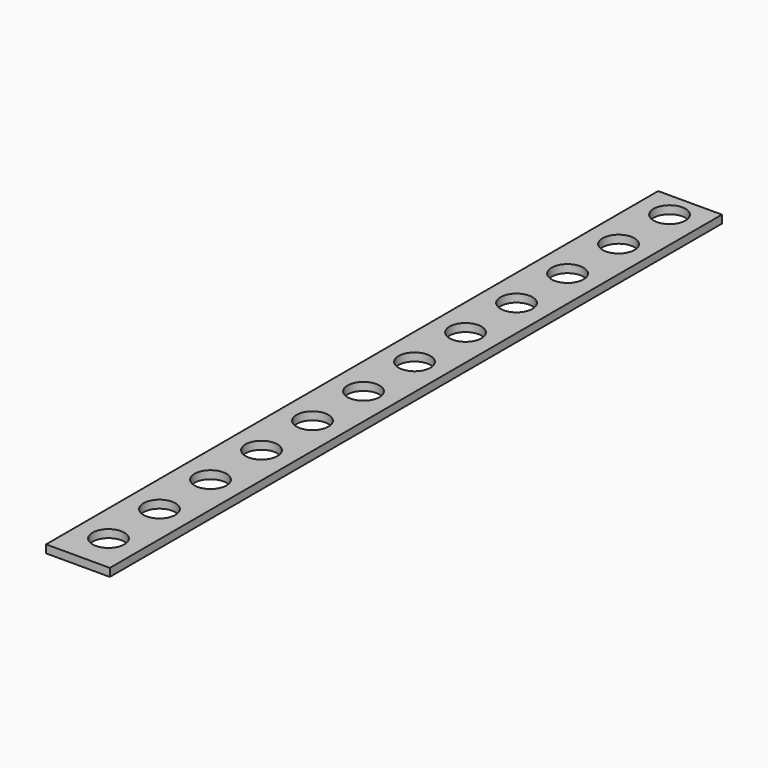
from build123d import *

# Parameters (mm, degrees)
F0_W     = 25.4
F0_H     = 304.8
F1_DEPTH = 3.175
F3_D     = 12.7
F3_DEPTH = 25.4
F3_TIP   = 3.8154649308
F4_D     = 12.7
F4_DEPTH = 25.4
F4_TIP   = 3.8154649308
F5_D     = 12.7
F5_DEPTH = 25.4
F5_TIP   = 3.8154649308
F6_D     = 12.7
F6_DEPTH = 25.4
F6_TIP   = 3.8154649308
F7_D     = 12.7
F7_DEPTH = 25.4
F7_TIP   = 3.8154649308


with BuildPart() as f1:
    # F0 (on Top) → F1 (new body)
    with BuildSketch(Plane.XY):
        Rectangle(F0_W, F0_H)
    extrude(amount=F1_DEPTH)

    # F3
    with Locations(Plane(origin=(0, 0, 0), x_dir=(1, 0, 0), z_dir=(0, 0, -1))):
        with Locations((0, 137.2016693357)):
            Hole(F3_D / 2, depth=F3_DEPTH)
            with Locations((0, 0, -(F3_DEPTH + F3_TIP / 2))):  # 118° drill point
                Cone(0, F3_D / 2, F3_TIP, mode=Mode.SUBTRACT)

    # F4
    with Locations(Plane(origin=(0, 0, 0), x_dir=(1, 0, 0), z_dir=(0, 0, -1))):
        with Locations((0, 111.8016693357)):
            Hole(F4_D / 2, depth=F4_DEPTH)
            with Locations((0, 0, -(F4_DEPTH + F4_TIP / 2))):  # 118° drill point
                Cone(0, F4_D / 2, F4_TIP, mode=Mode.SUBTRACT)

    # F5
    with Locations(Plane(origin=(0, 0, 0), x_dir=(1, 0, 0), z_dir=(0, 0, -1))):
        with Locations((0, 86.4016693357)):
            Hole(F5_D / 2, depth=F5_DEPTH)
            with Locations((0, 0, -(F5_DEPTH + F5_TIP / 2))):  # 118° drill point
                Cone(0, F5_D / 2, F5_TIP, mode=Mode.SUBTRACT)

    # F6
    with Locations(Plane(origin=(0, 0, 0), x_dir=(1, 0, 0), z_dir=(0, 0, -1))):
        with Locations((0, 61.0016693357)):
            Hole(F6_D / 2, depth=F6_DEPTH)
            with Locations((0, 0, -(F6_DEPTH + F6_TIP / 2))):  # 118° drill point
                Cone(0, F6_D / 2, F6_TIP, mode=Mode.SUBTRACT)

    # F7
    with Locations(Plane(origin=(0, 0, 0), x_dir=(1, 0, 0), z_dir=(0, 0, -1))):
        with Locations((0, 35.6016693357), (0, 10.2016693357), (0, -15.1983306643), (0, -40.5983306643), (0, -65.9983306643), (0, -91.3983306643), (0, -116.7983306643), (0, -142.1983306643)):
            Hole(F7_D / 2, depth=F7_DEPTH)
            with Locations((0, 0, -(F7_DEPTH + F7_TIP / 2))):  # 118° drill point
                Cone(0, F7_D / 2, F7_TIP, mode=Mode.SUBTRACT)


solid = f1.part
